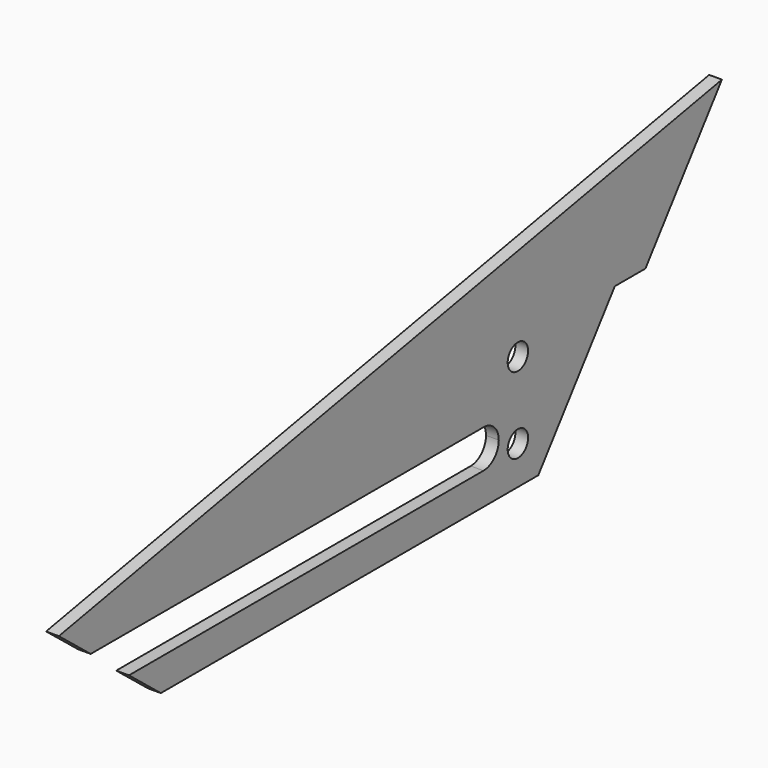
from build123d import *

# Parameters (mm, degrees)
F1_DEPTH = 1
F2_R     = 1
F3_DEPTH = 1


with BuildPart() as f1:
    # F0 (on Right) → F1 (new body)
    with BuildSketch(Plane.YZ):
        Polygon((-19.902401, 0), (0, 0), (20.097599, 0), (35.097599, 20), (-29.902401, 8), align=None)
    extrude(amount=F1_DEPTH)

    # F2 (on face) → F3 (cut, through all)
    with BuildSketch(Plane.YZ.offset(1)):
        with Locations((15.097599, 9)):
            Circle(F2_R)
        with Locations((15.097599, 3)):
            Circle(F2_R)
        with BuildLine():
            Line((11.722599, 5.5), (-26.777401, 5.5))
            Line((-26.777401, 5.5), (-23.027401, 2.5))
            Line((-23.027401, 2.5), (11.722599, 2.5))
            ThreePointArc((11.722599, 2.5), (12.783259, 2.93934), (13.222599, 4))
            ThreePointArc((13.222599, 4), (12.783259, 5.06066), (11.722599, 5.5))
        make_face()
        Polygon((20.097599, 0), (27.597599, 10), (24.597599, 10), (17.097599, 0), align=None)
    extrude(amount=-F3_DEPTH, mode=Mode.SUBTRACT)


solid = f1.part
